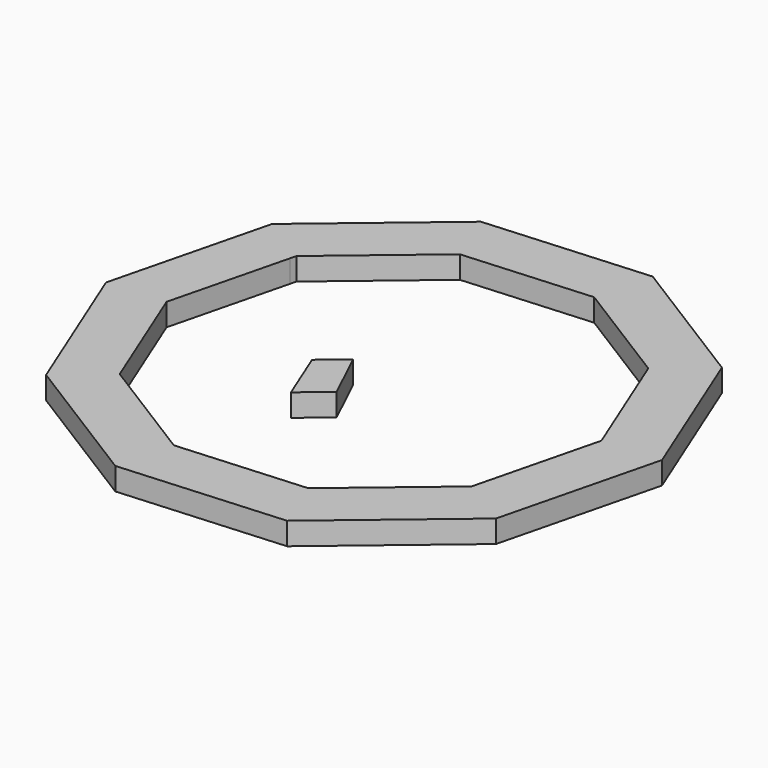
from build123d import *

# Parameters (mm, degrees)
F2_DEPTH = 25.399999693
F6_DEPTH = 25.4


with BuildPart() as f2:
    # F1 (on face) + F0 (on Top) → F2 (new body)
    with BuildSketch(Plane.XY):
        Polygon((-111.7090208536, 276.4895289227), (-252.8909638096, 158.0238126594), (-199.5292903903, 116.6656971275), (-197.8005056994, 123.5994738037), (-87.3740227139, 216.2582949491), align=None)
        Polygon((72.1432911881, 289.3457349723), (-111.7090208536, 276.4895289227), (-87.3740227139, 216.2582949491), (56.4276871958, 226.3138900752), align=None)
        Polygon((252.8912963973, -158.0237002986), (297.475504436, 20.8043405065), (232.672446056, 16.2724183596), (197.8005794587, -123.599250492), (197.8005196319, -123.5994904582), (170.1937765863, -146.7640499688), (217.5955292139, -187.6400479438), align=None)
        Polygon((115.1196894096, -192.9762006665), (142.5870335407, -250.578974095), (182.2997620306, -217.256395589), (217.5955292139, -187.6400479438), (170.1937765863, -146.7640499688), (142.5870335407, -169.9286094794), align=None)
        Polygon((252.8912963973, -158.0237002986), (297.475504436, 20.8043405065), (232.672446056, 16.2724183596), (197.8005794587, -123.599250492), (197.8005196319, -123.5994904582), (170.1937765863, -146.7640499688), (217.5955292139, -187.6400479438), align=None)
        Polygon((297.475504436, 20.8043405065), (228.4359453683, 191.6832455206), (178.6725658009, 149.9268120649), (232.672446056, 16.2724183596), align=None)
        Polygon((228.4359453683, 191.6832455206), (72.1432911881, 289.3457349723), (56.4276871958, 226.3138900752), (178.6725658009, 149.9268120649), align=None)
        Polygon((-199.5292903903, 116.6656971275), (-252.8909638096, 158.0238126594), (-297.4771540381, -20.8016290079), (-232.6739184998, -16.2701453431), align=None)
        Polygon((-178.6742984099, -149.9238951169), (-228.4376779774, -191.6803285726), (-72.1427644082, -289.3442298472), (-56.4270076022, -226.3124804387), align=None)
        Polygon((-232.6739184998, -16.2701453431), (-297.4771540381, -20.8016290079), (-228.4376779774, -191.6803285726), (-178.6742984099, -149.9238951169), align=None)
    with BuildSketch(Plane.XY):
        Polygon((87.3735474494, -216.2577285007), (-56.4270076022, -226.3124804387), (-72.1427644082, -289.3442298472), (111.708227664, -276.4890908793), align=None)
        Polygon((115.1196894096, -192.9762006665), (87.3735474494, -216.2577285007), (111.708227664, -276.4890908793), (142.5870335407, -250.578974095), align=None)
    extrude(amount=-F2_DEPTH)


with BuildPart() as f6:
    # F5 (on offset) → F6 (new body)
    with BuildSketch(Plane.XY.offset(83.4812130779)):
        Polygon((95.1647471272, -162.6130449808), (67.418605167, -185.894572815), (91.7532853816, -246.1259351936), (122.6320912583, -220.2158184093), align=None)
    extrude(amount=F6_DEPTH)


solid = Compound([f2.part, f6.part])
